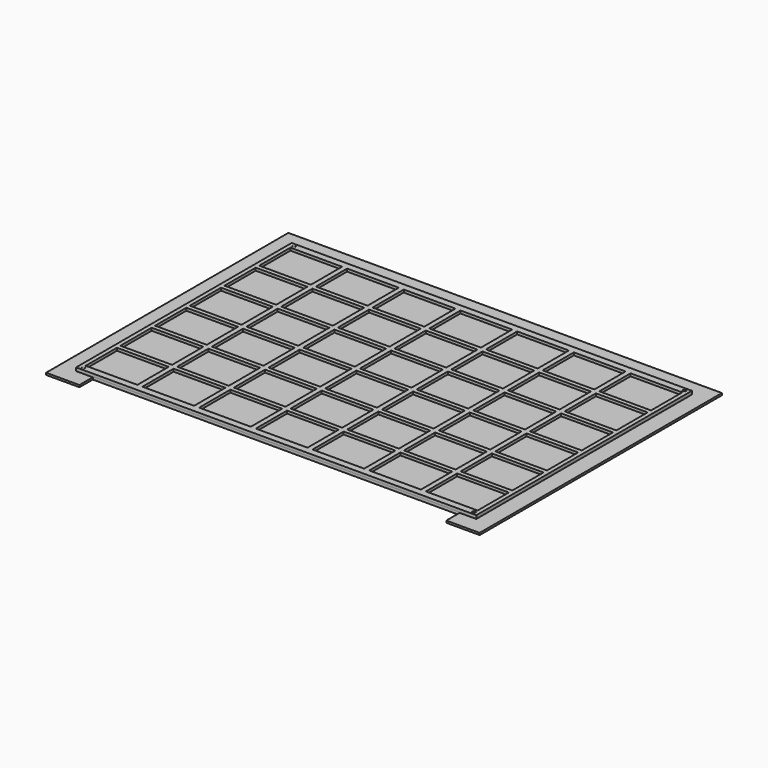
from build123d import *

# Parameters (mm, degrees)
F0_W     = 600
F0_H     = 404
F1_DEPTH = 4
F2_R     = 2.25
F3_DEPTH = 4
F4_R     = 0.5
F5_W     = 600
F5_H     = 404
F5_R     = 2.25
F5_W_2   = 77.5
F5_H_2   = 58.5
F6_DEPTH = 4
F8_DEPTH = 3


with BuildPart() as f1:
    # F0 (on Top) → F1 (new body)
    with BuildSketch(Plane.XY):
        with Locations((300, 202)):
            Rectangle(F0_W, F0_H)
    extrude(amount=F1_DEPTH)

    # F2 (on face) → F3 (join)
    with BuildSketch(Plane.XY.offset(4)):
        with Locations((7.25, 4.75)):
            Circle(F2_R)
        with Locations((7.25, 399.25)):
            Circle(F2_R)
        with Locations((592.75, 399.25)):
            Circle(F2_R)
        with Locations((592.75, 4.75)):
            Circle(F2_R)
    extrude(amount=F3_DEPTH)

    # F4
    f4_edges = [f1.edges().sort_by_distance(p)[0] for p in [
        (5, 399.25, 8),
        (5, 4.75, 8),
        (590.5, 4.75, 8),
        (590.5, 399.25, 8),
    ]]
    fillet(f4_edges, radius=F4_R)


with BuildPart() as f6:
    # F5 (on face) → F6 (new body)
    with BuildSketch(Plane.XY.offset(4)):
        with Locations((300, 202)):
            Rectangle(F5_W, F5_H)
        with Locations((7.25, 4.75)):
            Circle(F5_R, mode=Mode.SUBTRACT)
        with Locations((45, 39.5)):
            Rectangle(F5_W_2, F5_H_2, mode=Mode.SUBTRACT)
        with Locations((130, 39.5)):
            Rectangle(F5_W_2, F5_H_2, mode=Mode.SUBTRACT)
        with Locations((215, 39.5)):
            Rectangle(F5_W_2, F5_H_2, mode=Mode.SUBTRACT)
        with Locations((45, 104.5)):
            Rectangle(F5_W_2, F5_H_2, mode=Mode.SUBTRACT)
        with Locations((130, 104.5)):
            Rectangle(F5_W_2, F5_H_2, mode=Mode.SUBTRACT)
        with Locations((45, 169.5)):
            Rectangle(F5_W_2, F5_H_2, mode=Mode.SUBTRACT)
        with Locations((130, 169.5)):
            Rectangle(F5_W_2, F5_H_2, mode=Mode.SUBTRACT)
        with Locations((215, 104.5)):
            Rectangle(F5_W_2, F5_H_2, mode=Mode.SUBTRACT)
        with Locations((215, 169.5)):
            Rectangle(F5_W_2, F5_H_2, mode=Mode.SUBTRACT)
        with Locations((300, 39.5)):
            Rectangle(F5_W_2, F5_H_2, mode=Mode.SUBTRACT)
        with Locations((385, 39.5)):
            Rectangle(F5_W_2, F5_H_2, mode=Mode.SUBTRACT)
        with Locations((470, 39.5)):
            Rectangle(F5_W_2, F5_H_2, mode=Mode.SUBTRACT)
        with Locations((592.75, 4.75)):
            Circle(F5_R, mode=Mode.SUBTRACT)
        with Locations((555, 39.5)):
            Rectangle(F5_W_2, F5_H_2, mode=Mode.SUBTRACT)
        with Locations((300, 104.5)):
            Rectangle(F5_W_2, F5_H_2, mode=Mode.SUBTRACT)
        with Locations((385, 104.5)):
            Rectangle(F5_W_2, F5_H_2, mode=Mode.SUBTRACT)
        with Locations((300, 169.5)):
            Rectangle(F5_W_2, F5_H_2, mode=Mode.SUBTRACT)
        with Locations((385, 169.5)):
            Rectangle(F5_W_2, F5_H_2, mode=Mode.SUBTRACT)
        with Locations((470, 104.5)):
            Rectangle(F5_W_2, F5_H_2, mode=Mode.SUBTRACT)
        with Locations((555, 104.5)):
            Rectangle(F5_W_2, F5_H_2, mode=Mode.SUBTRACT)
        with Locations((470, 169.5)):
            Rectangle(F5_W_2, F5_H_2, mode=Mode.SUBTRACT)
        with Locations((555, 169.5)):
            Rectangle(F5_W_2, F5_H_2, mode=Mode.SUBTRACT)
        with Locations((45, 234.5)):
            Rectangle(F5_W_2, F5_H_2, mode=Mode.SUBTRACT)
        with Locations((130, 234.5)):
            Rectangle(F5_W_2, F5_H_2, mode=Mode.SUBTRACT)
        with Locations((45, 299.5)):
            Rectangle(F5_W_2, F5_H_2, mode=Mode.SUBTRACT)
        with Locations((130, 299.5)):
            Rectangle(F5_W_2, F5_H_2, mode=Mode.SUBTRACT)
        with Locations((215, 234.5)):
            Rectangle(F5_W_2, F5_H_2, mode=Mode.SUBTRACT)
        with Locations((215, 299.5)):
            Rectangle(F5_W_2, F5_H_2, mode=Mode.SUBTRACT)
        with Locations((45, 364.5)):
            Rectangle(F5_W_2, F5_H_2, mode=Mode.SUBTRACT)
        with Locations((7.25, 399.25)):
            Circle(F5_R, mode=Mode.SUBTRACT)
        with Locations((130, 364.5)):
            Rectangle(F5_W_2, F5_H_2, mode=Mode.SUBTRACT)
        with Locations((215, 364.5)):
            Rectangle(F5_W_2, F5_H_2, mode=Mode.SUBTRACT)
        with Locations((300, 234.5)):
            Rectangle(F5_W_2, F5_H_2, mode=Mode.SUBTRACT)
        with Locations((385, 234.5)):
            Rectangle(F5_W_2, F5_H_2, mode=Mode.SUBTRACT)
        with Locations((300, 299.5)):
            Rectangle(F5_W_2, F5_H_2, mode=Mode.SUBTRACT)
        with Locations((385, 299.5)):
            Rectangle(F5_W_2, F5_H_2, mode=Mode.SUBTRACT)
        with Locations((470, 234.5)):
            Rectangle(F5_W_2, F5_H_2, mode=Mode.SUBTRACT)
        with Locations((555, 234.5)):
            Rectangle(F5_W_2, F5_H_2, mode=Mode.SUBTRACT)
        with Locations((470, 299.5)):
            Rectangle(F5_W_2, F5_H_2, mode=Mode.SUBTRACT)
        with Locations((555, 299.5)):
            Rectangle(F5_W_2, F5_H_2, mode=Mode.SUBTRACT)
        with Locations((300, 364.5)):
            Rectangle(F5_W_2, F5_H_2, mode=Mode.SUBTRACT)
        with Locations((385, 364.5)):
            Rectangle(F5_W_2, F5_H_2, mode=Mode.SUBTRACT)
        with Locations((470, 364.5)):
            Rectangle(F5_W_2, F5_H_2, mode=Mode.SUBTRACT)
        with Locations((555, 364.5)):
            Rectangle(F5_W_2, F5_H_2, mode=Mode.SUBTRACT)
        with Locations((592.75, 399.25)):
            Circle(F5_R, mode=Mode.SUBTRACT)
    extrude(amount=F6_DEPTH)


with BuildPart() as f8:
    # F7 (on Top) → F8 (new body)
    with BuildSketch(Plane.XY):
        Polygon((0, 0), (0, 404), (600, 404), (600, 0), (625, 0), (625, 429), (-25, 429), (-25, 0), align=None)
        Polygon((25, 0), (0, 0), (-25, 0), (-25, -25), (25, -25), align=None)
        Polygon((625, 0), (600, 0), (575, 0), (575, -25), (625, -25), align=None)
    extrude(amount=F8_DEPTH)


solid = Compound([f1.part, f6.part, f8.part])
